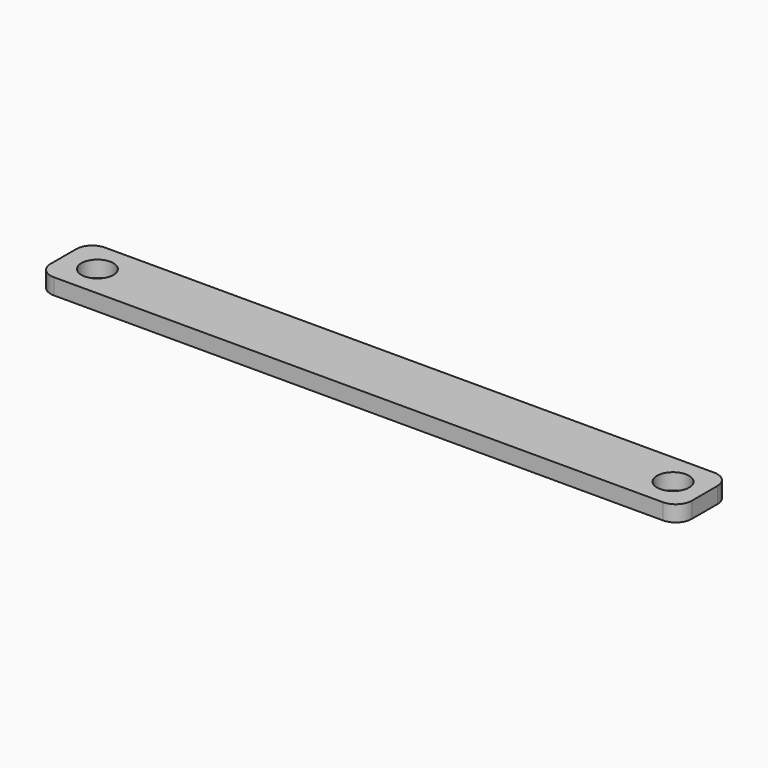
from build123d import *

# Parameters (mm, degrees)
F0_W     = 200
F0_H     = 20
F0_R     = 5
F1_DEPTH = 5
F2_R     = 5


with BuildPart() as f1:
    # F0 (on Top) → F1 (new body)
    with BuildSketch(Plane.XY):
        Rectangle(F0_W, F0_H)
        with Locations((-89.380234, 0)):
            Circle(F0_R, mode=Mode.SUBTRACT)
        with Locations((90.147443, 0)):
            Circle(F0_R, mode=Mode.SUBTRACT)
    extrude(amount=F1_DEPTH)

    # F2
    f2_edges = [f1.edges().sort_by_distance(p)[0] for p in [
        (-100, -10, 2.5),
        (100, -10, 2.5),
        (100, 10, 2.5),
        (-100, 10, 2.5),
    ]]
    fillet(f2_edges, radius=F2_R)


solid = f1.part
